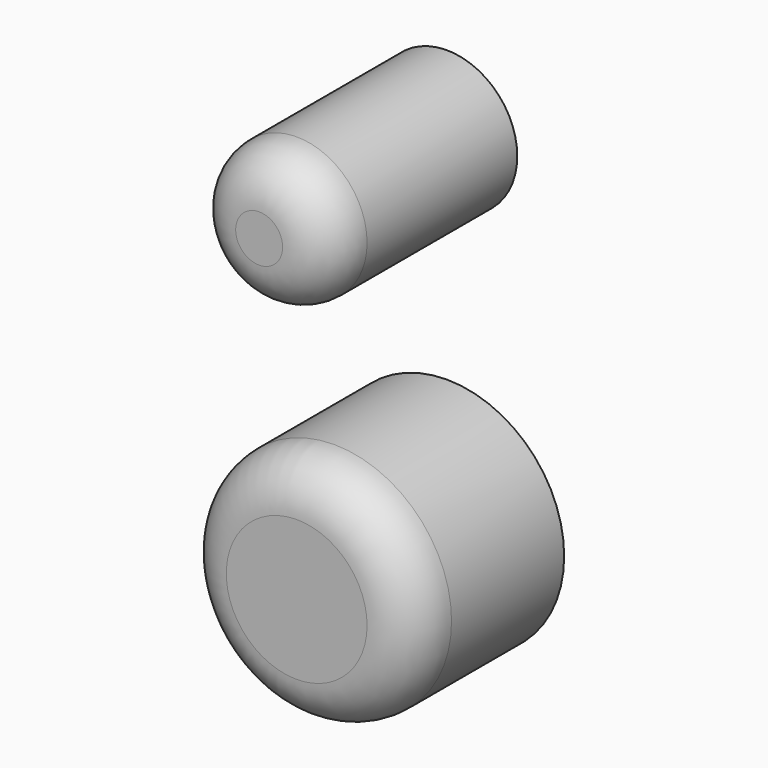
from build123d import *

# Parameters (mm, degrees)
F0_R     = 3.175
F1_DEPTH = 5.08
F2_R     = 1.27
F3_R     = 1.905
F4_DEPTH = 6.35
F5_R     = 1.27


with BuildPart() as f1:
    # F0 (on Front) → F1 (new body)
    with BuildSketch(Plane.XZ):
        Circle(F0_R)
    extrude(amount=F1_DEPTH)

    # F2
    f2_edges = [f1.edges().sort_by_distance(p)[0] for p in [
        (-3.175, -5.08, 0),
    ]]
    fillet(f2_edges, radius=F2_R)


with BuildPart() as f4:
    # F3 (on Front) → F4 (new body)
    with BuildSketch(Plane.XZ):
        with Locations((0, 9.117034)):
            Circle(F3_R)
    extrude(amount=F4_DEPTH)

    # F5
    f5_edges = [f4.edges().sort_by_distance(p)[0] for p in [
        (-1.905, -6.35, 9.117034),
    ]]
    fillet(f5_edges, radius=F5_R)


solid = Compound([f1.part, f4.part])
